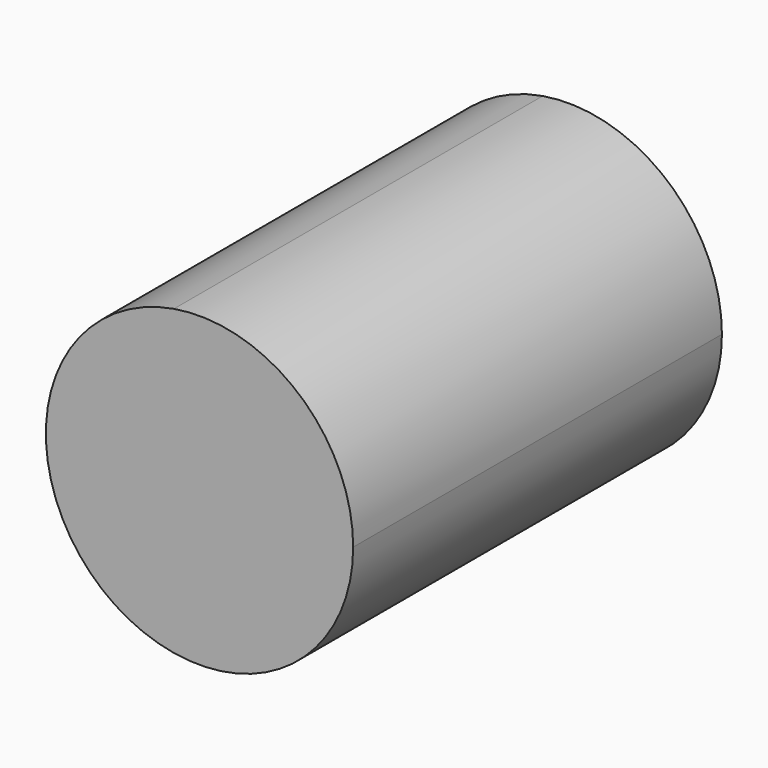
from build123d import *

# Parameters (mm, degrees)
F1_DEPTH = 76.2


with BuildPart() as f1:
    # F0 (on Front) → F1 (new body)
    with BuildSketch(Plane.XZ):
        with BuildLine():
            ThreePointArc((-4.233333, -25.044738), (16.395629, -19.39957), (25.4, 0))
            ThreePointArc((25.4, 0), (16.395629, 19.39957), (-4.233333, 25.044738))
            ThreePointArc((-4.233333, 25.044738), (-25.4, 0), (-4.233333, -25.044738))
        make_face()
    extrude(amount=F1_DEPTH)


solid = f1.part
